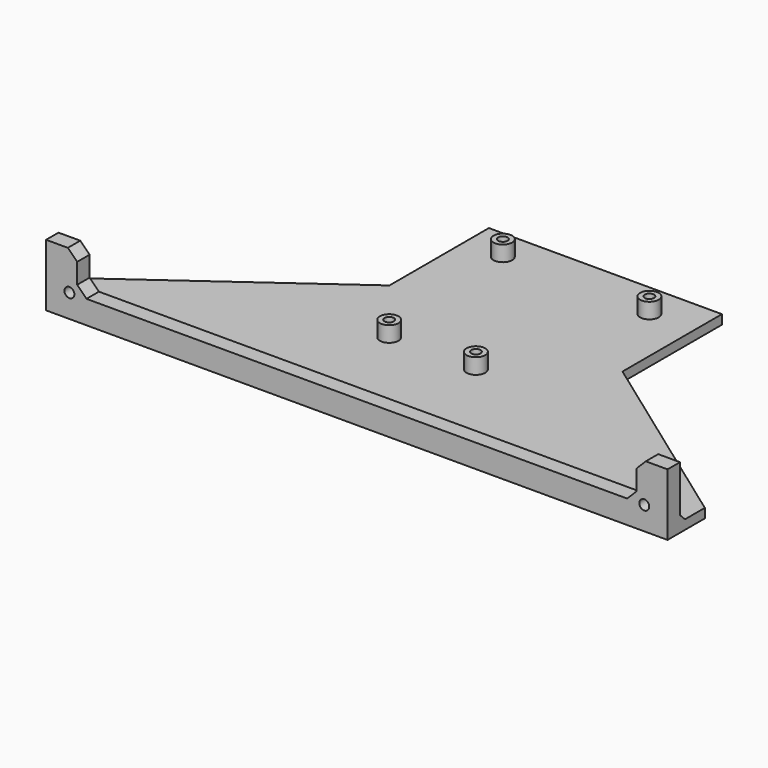
from build123d import *

# Parameters (mm, degrees)
PAD_DEPTH       = 3
PAD001_DEPTH    = 5
SKETCH002_R     = 1.6
POCKET_DEPTH    = 100.001
SKETCH003_R     = 3
SKETCH003_R_2   = 1.5
PAD002_DEPTH    = 5
CHAMFER_SIZE    = 3
CHAMFER001_SIZE = 2


with BuildPart() as part:
    # Sketch → Pad (new body)
    with BuildSketch(Plane.XY):
        Polygon((0, 0), (200, 0), (200, 15), (137.5, 60), (137.5, 100), (62.5, 100), (62.5, 60), (0, 15), align=None)
    extrude(amount=PAD_DEPTH)

    # Sketch001 (on Face1 of Pad) → Pad001 (join)
    with BuildSketch(Plane.XZ):
        Polygon((0, 3), (0, 20), (10, 20), (10, 7.5), (190, 7.5), (190, 20), (200, 20), (200, 3), align=None)
    extrude(amount=-PAD001_DEPTH)

    # Sketch002 (on Face14 of Pad001) → Pocket (cut, through all)
    with BuildSketch(Plane.XZ):
        with Locations((7.5, 7.5)):
            Circle(SKETCH002_R)
        with Locations((192.5, 7.5)):
            Circle(SKETCH002_R)
    extrude(amount=-POCKET_DEPTH, mode=Mode.SUBTRACT)

    # Sketch003 (on Face7 of Pocket) → Pad002 (join)
    with BuildSketch(Plane.XY.offset(3)):
        with Locations((75, 90)):
            Circle(SKETCH003_R)
        with Locations((75, 90)):
            Circle(SKETCH003_R_2, mode=Mode.SUBTRACT)
        with Locations((123.2, 88.7)):
            Circle(SKETCH003_R)
        with Locations((123.2, 88.7)):
            Circle(SKETCH003_R_2, mode=Mode.SUBTRACT)
        with Locations((108, 37.9)):
            Circle(SKETCH003_R)
        with Locations((108, 37.9)):
            Circle(SKETCH003_R_2, mode=Mode.SUBTRACT)
        with Locations((80.1, 37.9)):
            Circle(SKETCH003_R)
        with Locations((80.1, 37.9)):
            Circle(SKETCH003_R_2, mode=Mode.SUBTRACT)
    extrude(amount=PAD002_DEPTH)

    # Chamfer
    chamfer_edges = [part.edges().sort_by_distance(p)[0] for p in [
        (10, 2.5, 7.5),
        (190, 2.5, 7.5),
        (190, 2.5, 20),
        (10, 2.5, 20),
    ]]
    chamfer(chamfer_edges, length=CHAMFER_SIZE)

    # Chamfer001
    chamfer001_edges = [part.edges().sort_by_distance(p)[0] for p in [
        (100, 5, 3),
    ]]
    chamfer(chamfer001_edges, length=CHAMFER001_SIZE)


solid = part.part
